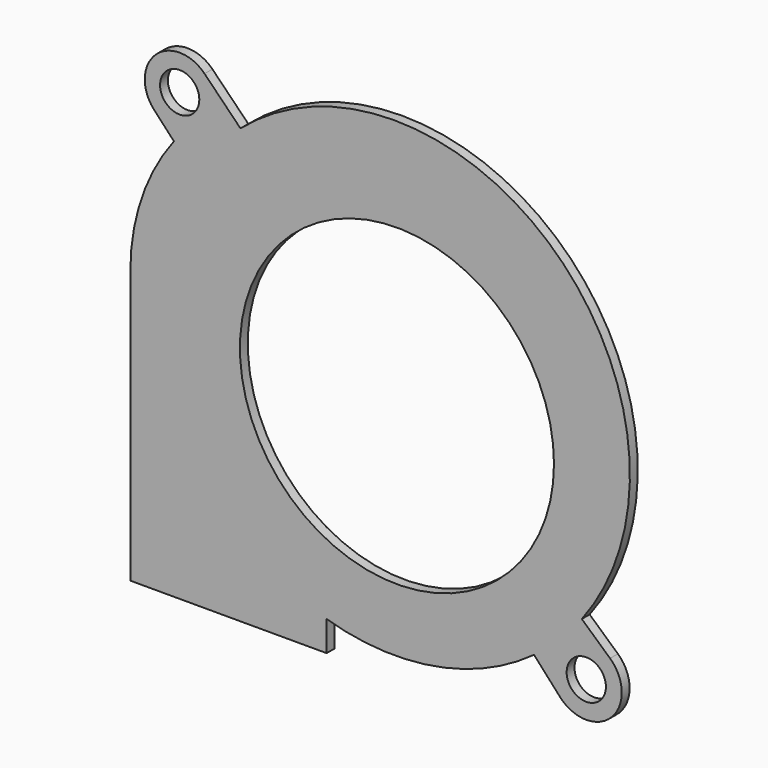
from build123d import *

# Parameters (mm, degrees)
F0_R     = 16
F0_R_2   = 2
F1_DEPTH = 1


with BuildPart() as f1:
    # F0 (on Front) → F1 (new body)
    with BuildSketch(Plane.XZ):
        with Locations((11.375166, 22.865392)):
            Circle(F0_R)
        with BuildLine():
            Line((4.209625, -1.647812), (4.209625, 1.420013))
            ThreePointArc((4.209625, 1.420013), (15.207091, 0.758549), (25.341338, 5.080448))
            Line((25.341338, 5.080448), (27.98607, 2.162959))
            ThreePointArc((27.98607, 2.162959), (33.227056, 2.037489), (33.08977, 7.27818))
            Line((33.08977, 7.27818), (30.211789, 9.875299))
            ThreePointArc((30.211789, 9.875299), (27.548758, 41.893357), (-4.572665, 42.57308))
            Line((-4.572665, 42.57308), (-8.227887, 46.289463))
            ThreePointArc((-8.227887, 46.289463), (-13.224062, 46.363974), (-13.364673, 41.369222))
            Line((-13.364673, 41.369222), (-11.350405, 39.209819))
            ThreePointArc((-11.350405, 39.209819), (-14.650167, 33.0315), (-15.790375, 26.12064))
            Line((-15.790375, 26.12064), (-15.790375, -1.647812))
            Line((-15.790375, -1.647812), (4.209625, -1.647812))
        make_face()
        with Locations((30.666229, 4.592549)):
            Circle(F0_R_2, mode=Mode.SUBTRACT)
        with Locations((11.375166, 22.865392)):
            Circle(F0_R, mode=Mode.SUBTRACT)
        with Locations((-10.763726, 43.795356)):
            Circle(F0_R_2, mode=Mode.SUBTRACT)
    extrude(amount=F1_DEPTH)


solid = f1.part
